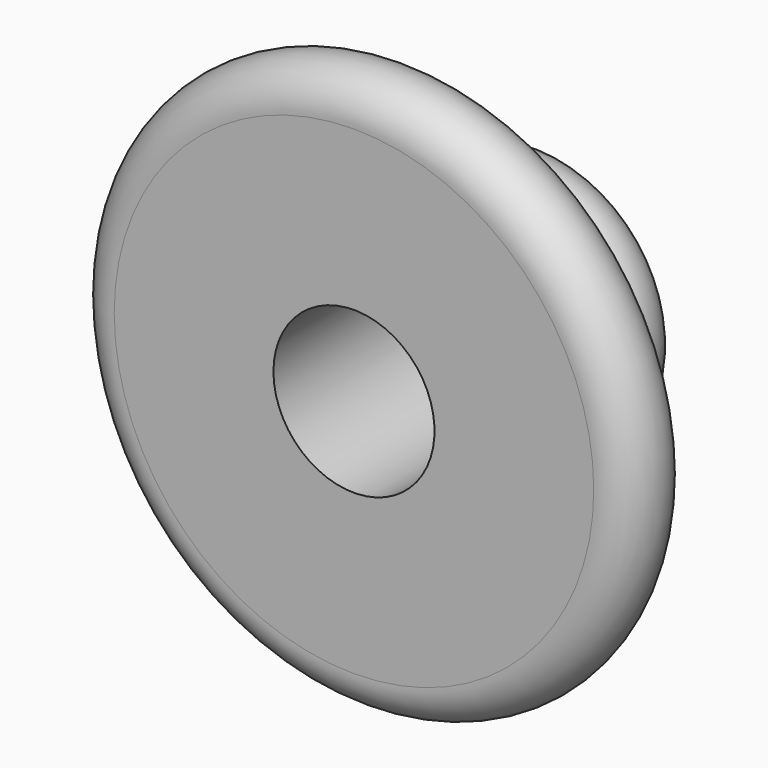
from build123d import *


with BuildPart() as part:
    # Sketch (on XY_Plane of Origin) → Revolution (revolve)
    with BuildSketch(Plane.XY):
        with BuildLine():
            add(Edge.make_bspline(
                [(-35.20097, 39.79903), (-14.577428, 7.535767), (-63.681812, 11.318188)],
                knots=[-1.108166, -1.108166, -1.108166, 1.332392, 1.332392, 1.332392], degree=2, weights=[1, 1.841641, 1]))
            ThreePointArc((-63.681812, 11.318188), (-74.449818, 1.347724), (-63.681812, -8.622741))
            Line((-63.681812, -8.622741), (-21.389385, -8.622741))
            Line((-21.389385, -8.622741), (-21.389385, 53.610615))
            ThreePointArc((-21.389385, 53.610615), (-33.846367, 52.256012), (-35.20097, 39.79903))
        make_face()
    revolve(axis=Axis((0, 0, 0), (0, 1, 0)))


solid = part.part
